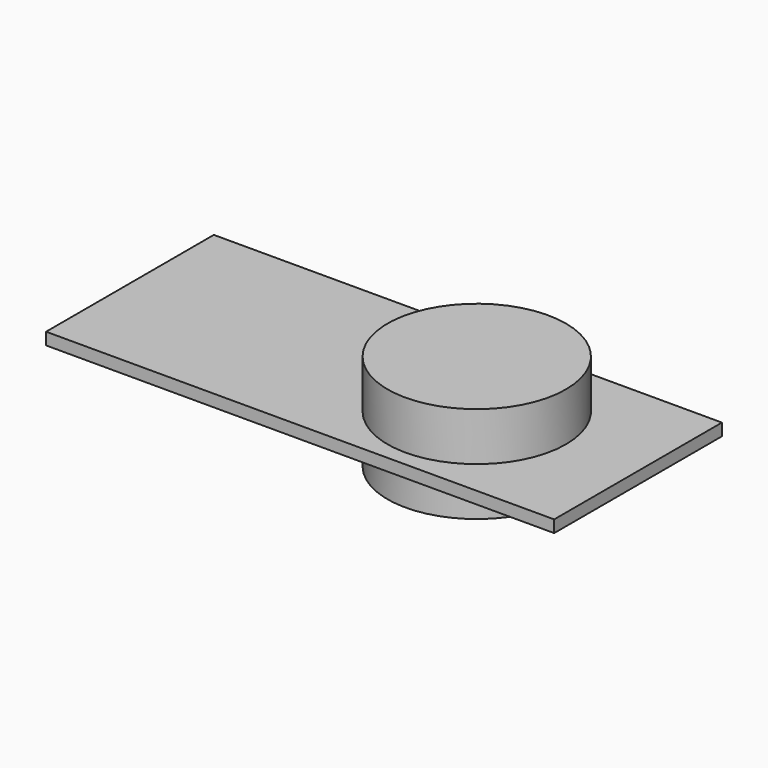
from build123d import *

# Parameters (mm, degrees)
F0_W          = 800.1
F0_H          = 330.2
F1_DEPTH      = 19.05
F2_R          = 140.462
F3_DEPTH      = 76.2
F3_DEPTH_BACK = 76.2


with BuildPart() as f1:
    # F0 (on Top) → F1 (new body)
    with BuildSketch(Plane.XY):
        with Locations((400.05, 165.1)):
            Rectangle(F0_W, F0_H)
    extrude(amount=F1_DEPTH)

    # F2 (on face) → F3 (join, two sides)
    with BuildSketch(Plane.XY.offset(19.05)) as f3_sk:
        with Locations((546.1, 165.1)):
            Circle(F2_R)
    extrude(amount=-F3_DEPTH)
    extrude(f3_sk.sketch, amount=F3_DEPTH_BACK)


solid = f1.part
